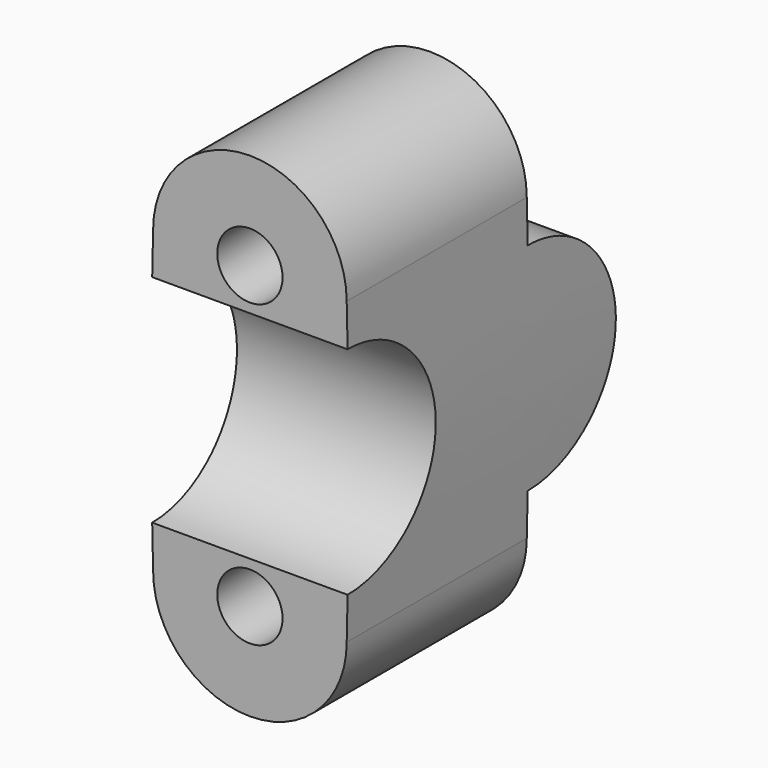
from build123d import *

# Parameters (mm, degrees)
F0_R     = 4.35
F1_DEPTH = 50
F3_DEPTH = 15


with BuildPart() as f1:
    # F0 (on Front) → F1 (new body)
    with BuildSketch(Plane.XZ):
        with BuildLine():
            add(Edge.make_bspline(
                [(12.9, 20), (13.075, 11.616667), (13.425, 0), (13.075, -11.616667), (12.9, -20)],
                knots=[0, 0, 0, 0, 20.003062, 40.006125, 40.006125, 40.006125, 40.006125], degree=3))
            ThreePointArc((12.9, 20), (0, 32.9), (-12.9, 20))
            add(Edge.make_bspline(
                [(-12.9, 20), (-13.075, 11.616667), (-13.425, 0), (-13.075, -11.616667), (-12.9, -20)],
                knots=[0, 0, 0, 0, 20.003062, 40.006125, 40.006125, 40.006125, 40.006125], degree=3))
            ThreePointArc((-12.9, -20), (0, -32.9), (12.9, -20))
        make_face()
        with Locations((0, -20)):
            Circle(F0_R, mode=Mode.SUBTRACT)
        with Locations((0, 20)):
            Circle(F0_R, mode=Mode.SUBTRACT)
    extrude(amount=-F1_DEPTH)

    # F2 (on Right) → F3 (cut, symmetric)
    with BuildSketch(Plane.YZ):
        with BuildLine():
            Line((0, 14.4), (0, -14.4))
            ThreePointArc((0, -14.4), (14.4, 0), (0, 14.4))
        make_face()
        with BuildLine():
            Line((50, -32.9), (50, 32.9))
            Line((50, 32.9), (30, 32.9))
            Line((30, 32.9), (30, 14.4))
            ThreePointArc((30, 14.4), (44.4, 0), (30, -14.4))
            Line((30, -14.4), (30, -32.9))
            Line((30, -32.9), (50, -32.9))
        make_face()
    extrude(amount=F3_DEPTH, both=True, mode=Mode.SUBTRACT)


solid = f1.part
